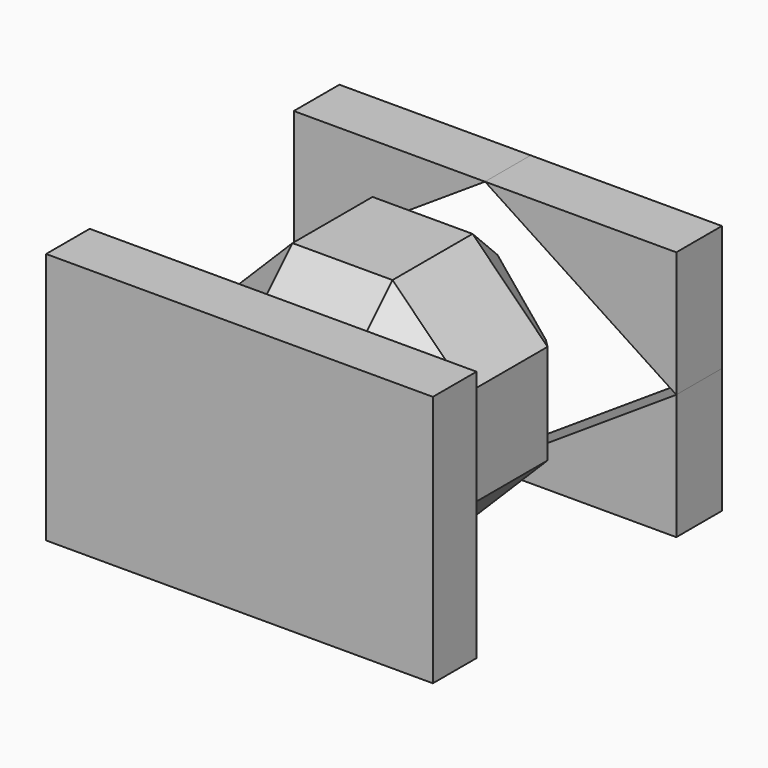
from build123d import *

# Parameters (mm, degrees)
F0_W     = 50
F0_H     = 50
F1_DEPTH = 50
F2_SIZE  = 15
F4_W     = 76.483816
F4_H     = 50.139394
F6_DEPTH = 11.4
F5_W     = 77.333644
F5_H     = 50.422661
F7_DEPTH = 10.9
F9_DEPTH = 25


with BuildPart() as f1:
    # F0 (on Front) → F1 (new body)
    with BuildSketch(Plane.XZ):
        with Locations((25, -25)):
            Rectangle(F0_W, F0_H)
    extrude(amount=F1_DEPTH)

    # F2
    f2_edges = [f1.edges().sort_by_distance(p)[0] for p in [
        (0, -25, -50),
        (50, -25, -50),
        (25, 0, -50),
        (25, -50, -50),
        (50, -25, 0),
        (50, 0, -25),
        (50, -50, -25),
        (25, -50, 0),
        (0, -50, -25),
        (0, -25, 0),
        (25, 0, 0),
        (0, 0, -25),
    ]]
    chamfer(f2_edges, length=F2_SIZE)

    # F4 (on Front) → F6 (join)
    with BuildSketch(Plane.XZ):
        with Locations((25.494605, -25.069697)):
            Rectangle(F4_W, F4_H)
    extrude(amount=-F6_DEPTH)

    # F8 (on face) → F9 (cut)
    with BuildSketch(Plane(origin=(0, 11.4, 0), x_dir=(-1, 0, 0), z_dir=(0, 1, 0))):
        Polygon((-25.494605, 0), (-63.736513, -25.069697), (-25.494605, -50.139394), (12.747303, -25.069697), align=None)
    extrude(amount=-F9_DEPTH, mode=Mode.SUBTRACT)


with BuildPart() as f7:
    # F5 (on offset) → F7 (new body)
    with BuildSketch(Plane.XZ.offset(51)):
        with Locations((25.919519, -25.21133)):
            Rectangle(F5_W, F5_H)
    extrude(amount=F7_DEPTH)


solid = Compound([f1.part, f7.part])
